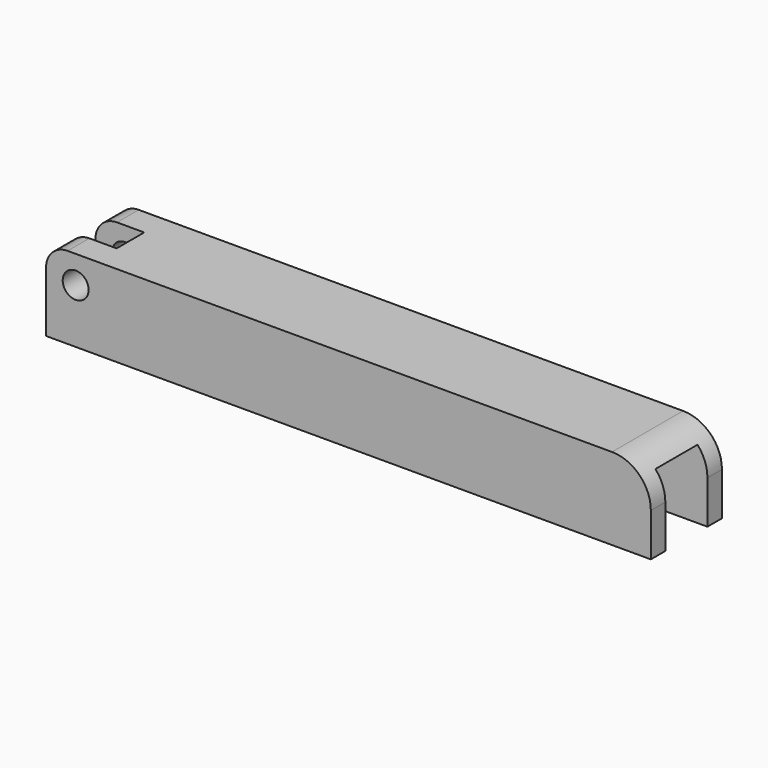
from build123d import *

# Parameters (mm, degrees)
F1_DEPTH = 10.3
F2_W     = 6.2
F2_H     = 4
F3_DEPTH = 29.457661
F4_R     = 1.5
F5_DEPTH = 10.301
F6_W     = 62.441146
F6_H     = 6.1
F7_DEPTH = 8


with BuildPart() as f1:
    # F0 (on Front) → F1 (new body)
    with BuildSketch(Plane.XZ):
        with BuildLine():
            Line((29.198073, 29.456661), (-33.899927, 29.456661))
            ThreePointArc((-33.899927, 29.456661), (-35.667694, 28.724428), (-36.399927, 26.956661))
            Line((-36.399927, 26.956661), (-36.399927, 19.956661))
            Line((-36.399927, 19.956661), (33.698073, 19.956661))
            Line((33.698073, 19.956661), (33.698073, 24.956661))
            ThreePointArc((33.698073, 24.956661), (32.380053, 28.138642), (29.198073, 29.456661))
        make_face()
    extrude(amount=F1_DEPTH)

    # F2 (on Top) → F3 (cut, through all)
    with BuildSketch(Plane.XY):
        with Locations((-33.843073, -5.15)):
            Rectangle(F2_W, F2_H)
    extrude(amount=F3_DEPTH, mode=Mode.SUBTRACT)

    # F4 (on Front) → F5 (cut, through all)
    with BuildSketch(Plane.XZ):
        with Locations((-32.970642, 26.256661)):
            Circle(F4_R)
    extrude(amount=F5_DEPTH, mode=Mode.SUBTRACT)

    # F6 (on face) → F7 (cut)
    with BuildSketch(Plane(origin=(0, 0, 19.956661), x_dir=(1, 0, 0), z_dir=(0, 0, -1))):
        with Locations((2.4775, 5.15)):
            Rectangle(F6_W, F6_H)
    extrude(amount=-F7_DEPTH, mode=Mode.SUBTRACT)


solid = f1.part
